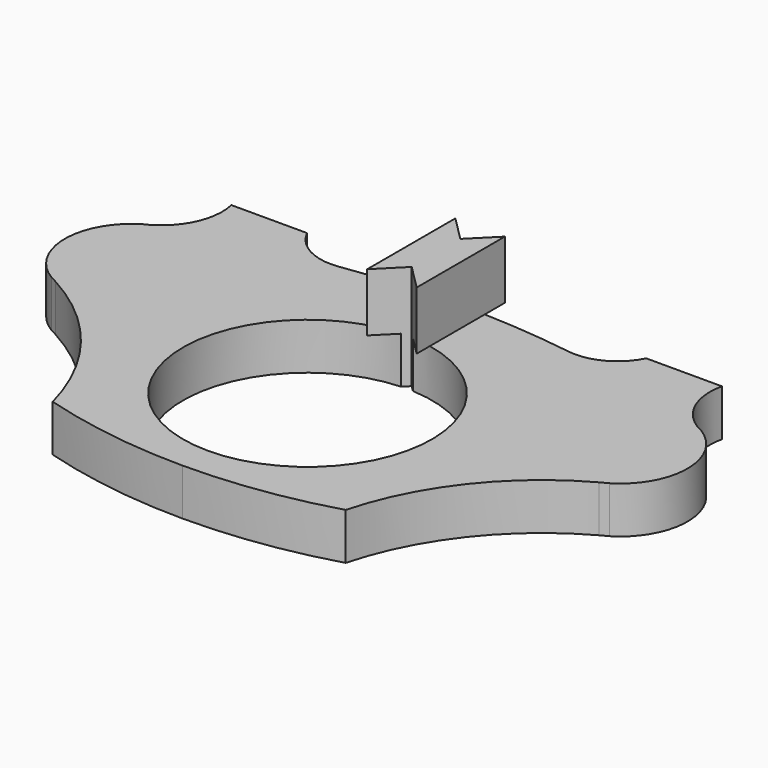
from build123d import *

# Parameters (mm, degrees)
F1_DEPTH = 8
F3_DEPTH = 10
F5_DEPTH = 25


with BuildPart() as f1:
    # F0 (on Top) → F1 (new body)
    with BuildSketch(Plane.XY):
        with BuildLine():
            Line((42.068422, 21.54067), (29.081911, 21.54067))
            ThreePointArc((29.081911, 21.54067), (25.256656, 17.577108), (19.841552, 16.567634))
            ThreePointArc((19.841552, 16.567634), (19.64703, 16.594249), (19.453131, 16.62508))
            ThreePointArc((19.453131, 16.62508), (9.752315, 17.686936), (0, 18.041513))
            ThreePointArc((0, 18.041513), (-9.752315, 17.686936), (-19.453131, 16.62508))
            ThreePointArc((-19.453131, 16.62508), (-19.64703, 16.594249), (-19.841552, 16.567634))
            ThreePointArc((-19.841552, 16.567634), (-25.256656, 17.577108), (-29.081911, 21.54067))
            Line((-29.081911, 21.54067), (-42.068422, 21.54067))
            ThreePointArc((-42.068422, 21.54067), (-42.606666, 15.286638), (-46.635796, 10.473247))
            ThreePointArc((-46.635796, 10.473247), (-47.308086, 10.078485), (-48.007976, 9.735025))
            ThreePointArc((-48.007976, 9.735025), (-53.385548, -0.095187), (-47.845987, -9.835033))
            ThreePointArc((-47.845987, -9.835033), (-47.228549, -10.153727), (-46.616208, -10.482108))
            ThreePointArc((-46.616208, -10.482108), (-33.037563, -21.996435), (-25.116532, -37.940607))
            ThreePointArc((-25.116532, -37.940607), (-12.686785, -40.637885), (0, -41.543091))
            ThreePointArc((0, -41.543091), (12.686785, -40.637885), (25.116532, -37.940607))
            ThreePointArc((25.116532, -37.940607), (33.037563, -21.996435), (46.616208, -10.482108))
            ThreePointArc((46.616208, -10.482108), (47.228549, -10.153727), (47.845987, -9.835033))
            ThreePointArc((47.845987, -9.835033), (53.385548, -0.095187), (48.007976, 9.735025))
            ThreePointArc((48.007976, 9.735025), (47.308086, 10.078485), (46.635796, 10.473247))
            ThreePointArc((46.635796, 10.473247), (42.606666, 15.286638), (42.068422, 21.54067))
        make_face()
        with BuildLine():
            ThreePointArc((0, 6.629357), (21.347405, -14.718047), (0, -36.065452))
            ThreePointArc((0, -36.065452), (-21.347405, -14.718047), (0, 6.629357))
        make_face(mode=Mode.SUBTRACT)
    extrude(amount=F1_DEPTH)

    # F2 (on face) → F3 (join)
    with BuildSketch(Plane.XY.offset(8)):
        Polygon((-4.242641, 3.38141), (0, 7.624051), (4.242641, 3.38141), (4.242641, 22.284153), (0, 18.041513), (-4.242641, 22.284153), align=None)
    extrude(amount=F3_DEPTH)

    # F4 (on face) → F5 (cut)
    with BuildSketch(Plane.XY.offset(18)):
        Polygon((4.242641, 3.38141), (0, 7.624051), (-4.242641, 3.38141), align=None)
    extrude(amount=-F5_DEPTH, mode=Mode.SUBTRACT)


solid = f1.part
